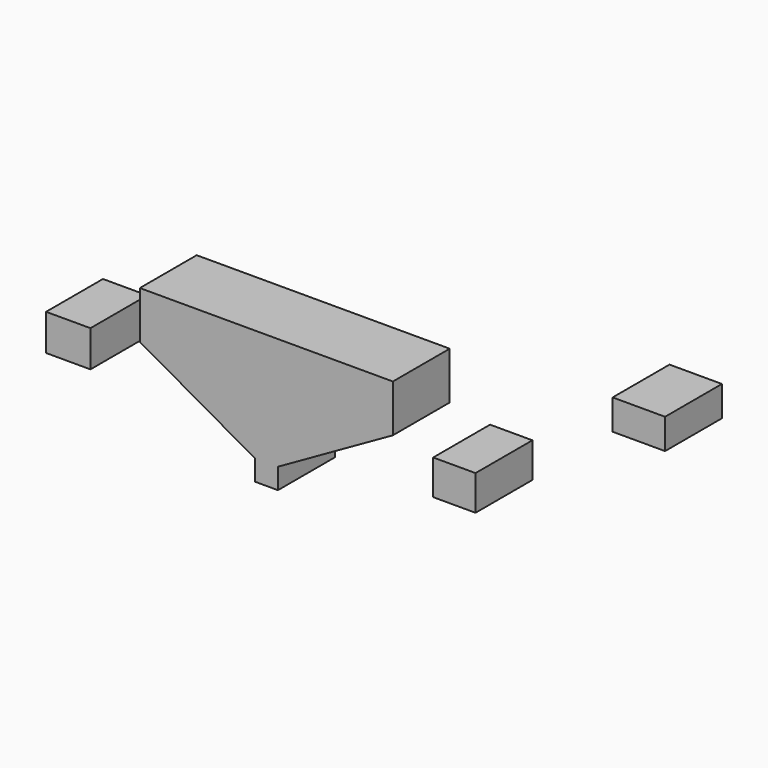
from build123d import *

# Parameters (mm, degrees)
F0_W     = 90.4318988323
F0_H     = 16.9334691018
F1_DEPTH = 25.4
F0_W_2   = 18.7349021435
F0_H_2   = 10.8085945249


with BuildPart() as f1:
    # F0 (on Front) → F1 (new body)
    with BuildSketch(Plane.XZ):
        with BuildLine():
            add(Edge.make_bspline(
                [(4.1432967409, -31.7030579362), (17.834180966, -23.9576168077), (31.5250651911, -16.2121756793), (45.2159494162, -8.4667345509)],
                knots=[4.7603909586, 4.7603909586, 4.7603909586, 4.7603909586, 51.9503212642, 51.9503212642, 51.9503212642, 51.9503212642], degree=3))
            Line((45.2159494162, -8.4667345509), (-45.2159494162, -8.4667345509))
            add(Edge.make_bspline(
                [(-4.1432967409, -31.7030579362), (-17.834180966, -23.9576168077), (-31.5250651911, -16.2121756793), (-45.2159494162, -8.4667345509)],
                knots=[4.7603909586, 4.7603909586, 4.7603909586, 4.7603909586, 51.9503212642, 51.9503212642, 51.9503212642, 51.9503212642], degree=3))
            Line((-4.1432967409, -31.7030579362), (-4.1432967409, -29.0030632168))
            Line((-4.1432967409, -29.0030632168), (4.1432967409, -29.0030632168))
            Line((4.1432967409, -29.0030632168), (4.1432967409, -31.7030579362))
        make_face()
        Rectangle(F0_W, F0_H)
        with BuildLine():
            add(Edge.make_bspline(
                [(0, -34.047074616), (1.3810989136, -33.2657357227), (2.7621978273, -32.4843968294), (4.1432967409, -31.7030579362)],
                knots=[0, 0, 0, 0, 4.7603909586, 4.7603909586, 4.7603909586, 4.7603909586], degree=3))
            Line((4.1432967409, -31.7030579362), (4.1432967409, -29.0030632168))
            Line((4.1432967409, -29.0030632168), (-4.1432967409, -29.0030632168))
            Line((-4.1432967409, -29.0030632168), (-4.1432967409, -31.7030579362))
            add(Edge.make_bspline(
                [(0, -34.047074616), (-1.3810989136, -33.2657357227), (-2.7621978273, -32.4843968294), (-4.1432967409, -31.7030579362)],
                knots=[0, 0, 0, 0, 4.7603909586, 4.7603909586, 4.7603909586, 4.7603909586], degree=3))
        make_face()
        with BuildLine():
            Line((4.1432967409, -39.0910860151), (4.1432967409, -31.7030579362))
            add(Edge.make_bspline(
                [(0, -34.047074616), (1.3810989136, -33.2657357227), (2.7621978273, -32.4843968294), (4.1432967409, -31.7030579362)],
                knots=[0, 0, 0, 0, 4.7603909586, 4.7603909586, 4.7603909586, 4.7603909586], degree=3))
            add(Edge.make_bspline(
                [(0, -34.047074616), (-1.3810989136, -33.2657357227), (-2.7621978273, -32.4843968294), (-4.1432967409, -31.7030579362)],
                knots=[0, 0, 0, 0, 4.7603909586, 4.7603909586, 4.7603909586, 4.7603909586], degree=3))
            Line((-4.1432967409, -31.7030579362), (-4.1432967409, -39.0910860151))
            Line((-4.1432967409, -39.0910860151), (4.1432967409, -39.0910860151))
        make_face()
    extrude(amount=F1_DEPTH)


with BuildPart() as f1b:
    # F0 (on Front) → F1, piece 2 (new body)
    with BuildSketch(Plane.XZ):
        with BuildLine():
            Line((-62.8699883819, -22.8781923652), (-62.8699883819, -18.4126714079))
            add(Edge.make_bspline(
                [(-62.8699883819, -18.4126714079), (-65.5120884379, -19.9011783937), (-68.1541884939, -21.3896853794), (-70.7962885499, -22.8781923652)],
                knots=[20.2629403534, 20.2629403534, 20.2629403534, 20.2629403534, 29.3605835523, 29.3605835523, 29.3605835523, 29.3605835523], degree=3))
            Line((-70.7962885499, -22.8781923652), (-62.8699883819, -22.8781923652))
        make_face()
        with BuildLine():
            add(Edge.make_bspline(
                [(-62.8699883819, -18.4126714079), (-65.5120884379, -19.9011783937), (-68.1541884939, -21.3896853794), (-70.7962885499, -22.8781923652)],
                knots=[20.2629403534, 20.2629403534, 20.2629403534, 20.2629403534, 29.3605835523, 29.3605835523, 29.3605835523, 29.3605835523], degree=3))
            Line((-62.8699883819, -18.4126714079), (-62.8699883819, -9.9078826606))
            Line((-62.8699883819, -9.9078826606), (-78.7225887179, -9.9078826606))
            Line((-78.7225887179, -9.9078826606), (-78.7225887179, -22.8781923652))
            Line((-78.7225887179, -22.8781923652), (-70.7962885499, -22.8781923652))
        make_face()
    extrude(amount=F1_DEPTH)


with BuildPart() as f1c:
    # F0 (on Front) → F1, piece 3 (new body)
    with BuildSketch(Plane.XZ):
        with BuildLine():
            Line((59.6274062991, -10.7485509167), (59.6274062991, -18.1531183473))
            add(Edge.make_bspline(
                [(59.6274062991, -18.1531183473), (62.1494154135, -19.8482383077), (64.671424528, -21.5433582681), (67.1934336424, -23.2384782284)],
                knots=[17.3642195489, 17.3642195489, 17.3642195489, 17.3642195489, 26.4804498487, 26.4804498487, 26.4804498487, 26.4804498487], degree=3))
            Line((67.1934336424, -23.2384782284), (74.7594609857, -23.2384782284))
            Line((74.7594609857, -23.2384782284), (74.7594609857, -10.7485509167))
            Line((74.7594609857, -10.7485509167), (59.6274062991, -10.7485509167))
        make_face()
        with BuildLine():
            add(Edge.make_bspline(
                [(59.6274062991, -18.1531183473), (62.1494154135, -19.8482383077), (64.671424528, -21.5433582681), (67.1934336424, -23.2384782284)],
                knots=[17.3642195489, 17.3642195489, 17.3642195489, 17.3642195489, 26.4804498487, 26.4804498487, 26.4804498487, 26.4804498487], degree=3))
            Line((59.6274062991, -18.1531183473), (59.6274062991, -23.2384782284))
            Line((59.6274062991, -23.2384782284), (67.1934336424, -23.2384782284))
        make_face()
    extrude(amount=F1_DEPTH)


with BuildPart() as f1d:
    # F0 (on Front) → F1, piece 4 (new body)
    with BuildSketch(Plane.XZ):
        with Locations((133.1258565187, 23.5987603664)):
            Rectangle(F0_W_2, F0_H_2)
    extrude(amount=F1_DEPTH)


solid = Compound([f1.part, f1b.part, f1c.part, f1d.part])
